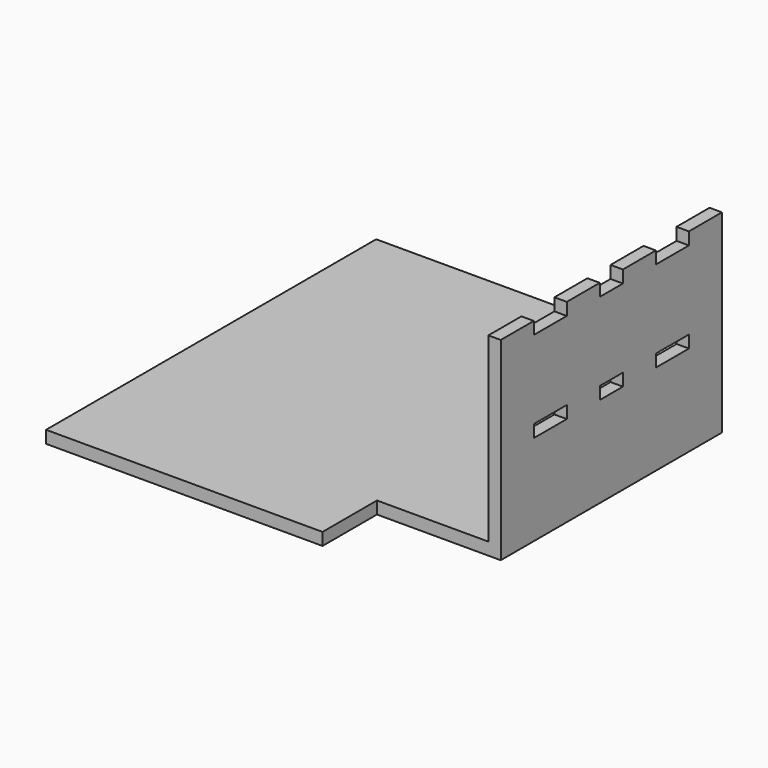
from build123d import *

# Parameters (mm, degrees)
BOX002_W     = 30
BOX002_H     = 16.5
BOX002_DEPTH = 11
BOX001_W     = 30
BOX001_H     = 16.5
BOX001_DEPTH = 3
BOX_W        = 97
BOX_H        = 100
BOX_DEPTH    = 3
BOX028_W     = 9
BOX028_H     = 10
BOX028_DEPTH = 3
BOX027_W     = 9
BOX027_H     = 7
BOX027_DEPTH = 3
BOX026_W     = 9
BOX026_H     = 10
BOX026_DEPTH = 3
BOX008_W     = 9
BOX008_H     = 10
BOX008_DEPTH = 3
BOX010_W     = 9
BOX010_H     = 7
BOX010_DEPTH = 3
BOX005_W     = 9
BOX005_H     = 10
BOX005_DEPTH = 3
BOX003_W     = 3
BOX003_H     = 67
BOX003_DEPTH = 47


with BuildPart() as obj1:
    # Box002 → Box002 (new body)
    with BuildSketch(Plane(origin=(67, 83.5, -4), x_dir=(1, 0, 0), z_dir=(0, 0, 1))):
        with Locations((15, 8.25)):
            Rectangle(BOX002_W, BOX002_H)
    extrude(amount=BOX002_DEPTH)


with BuildPart() as obj2:
    # Box001 → Box001 (new body)
    with BuildSketch(Plane(origin=(67, 0, 0), x_dir=(1, 0, 0), z_dir=(0, 0, 1))):
        with Locations((15, 8.25)):
            Rectangle(BOX001_W, BOX001_H)
    extrude(amount=BOX001_DEPTH)


with BuildPart() as base_con_agujeros_rueda:
    # Box → Box (new body)
    with BuildSketch(Plane.XY):
        with Locations((48.5, 50)):
            Rectangle(BOX_W, BOX_H)
    extrude(amount=BOX_DEPTH)

    # Cut: cut obj2
    add(obj2.part, mode=Mode.SUBTRACT)

    # Cut001: cut obj1
    add(obj1.part, mode=Mode.SUBTRACT)


with BuildPart() as box028:
    # Box028 → Box028 (new body)
    with BuildSketch(Plane(origin=(94, 63.5, 22), x_dir=(1, 0, 0), z_dir=(0, 0, 1))):
        with Locations((4.5, 5)):
            Rectangle(BOX028_W, BOX028_H)
    extrude(amount=BOX028_DEPTH)


with BuildPart() as centro002:
    # Box027 → Box027 (new body)
    with BuildSketch(Plane(origin=(94, 46.5, 22), x_dir=(1, 0, 0), z_dir=(0, 0, 1))):
        with Locations((4.5, 3.5)):
            Rectangle(BOX027_W, BOX027_H)
    extrude(amount=BOX027_DEPTH)


with BuildPart() as box026:
    # Box026 → Box026 (new body)
    with BuildSketch(Plane(origin=(94, 26.5, 22), x_dir=(1, 0, 0), z_dir=(0, 0, 1))):
        with Locations((4.5, 5)):
            Rectangle(BOX026_W, BOX026_H)
    extrude(amount=BOX026_DEPTH)


with BuildPart() as box008:
    # Box008 → Box008 (new body)
    with BuildSketch(Plane(origin=(91, 63.5, 44), x_dir=(1, 0, 0), z_dir=(0, 0, 1))):
        with Locations((4.5, 5)):
            Rectangle(BOX008_W, BOX008_H)
    extrude(amount=BOX008_DEPTH)


with BuildPart() as centro:
    # Box010 → Box010 (new body)
    with BuildSketch(Plane(origin=(91, 46.5, 44), x_dir=(1, 0, 0), z_dir=(0, 0, 1))):
        with Locations((4.5, 3.5)):
            Rectangle(BOX010_W, BOX010_H)
    extrude(amount=BOX010_DEPTH)


with BuildPart() as box005:
    # Box005 → Box005 (new body)
    with BuildSketch(Plane(origin=(91, 26.5, 44), x_dir=(1, 0, 0), z_dir=(0, 0, 1))):
        with Locations((4.5, 5)):
            Rectangle(BOX005_W, BOX005_H)
    extrude(amount=BOX005_DEPTH)


with BuildPart() as obj3:
    # Box003 → Box003 (new body)
    with BuildSketch(Plane(origin=(94, 16.5, 0), x_dir=(1, 0, 0), z_dir=(0, 0, 1))):
        with Locations((1.5, 33.5)):
            Rectangle(BOX003_W, BOX003_H)
    extrude(amount=BOX003_DEPTH)

    # Cut002: cut Box005
    add(box005.part, mode=Mode.SUBTRACT)

    # Cut003: cut centro
    add(centro.part, mode=Mode.SUBTRACT)

    # Cut004: cut Box008
    add(box008.part, mode=Mode.SUBTRACT)

    # Cut015: cut Box026
    add(box026.part, mode=Mode.SUBTRACT)

    # Cut016: cut centro002
    add(centro002.part, mode=Mode.SUBTRACT)

    # Cut017: cut Box028
    add(box028.part, mode=Mode.SUBTRACT)

    # Fusion004: union base con agujeros rueda
    add(base_con_agujeros_rueda.part)


solid = obj3.part
